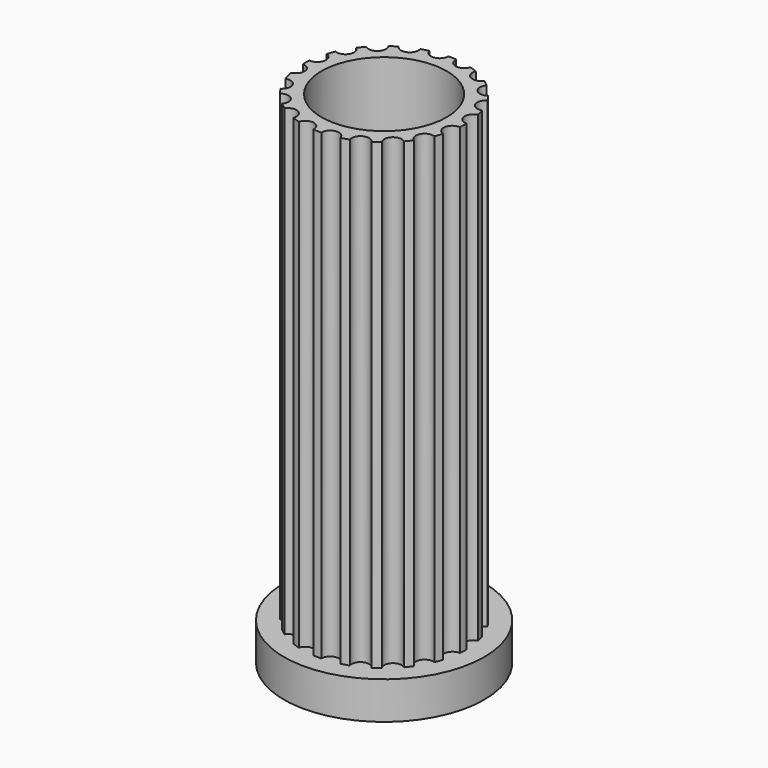
from build123d import *

# Parameters (mm, degrees)
F0_R     = 5
F1_DEPTH = 40
F0_R_2   = 8
F2_DEPTH = 3


with BuildPart() as f1:
    # F0 (on Top) → F1 (new body)
    with BuildSketch(Plane.XY):
        with BuildLine():
            ThreePointArc((-3.849529, 5.237473), (-3.941693, 4.313368), (-4.870341, 4.304623))
            ThreePointArc((-4.870341, 4.304623), (-5.077719, 4.057927), (-5.272613, 3.801256))
            ThreePointArc((-5.272613, 3.801256), (-5.076369, 2.893538), (-5.957405, 2.599871))
            ThreePointArc((-5.957405, 2.599871), (-6.078948, 2.301389), (-6.185547, 1.99725))
            ThreePointArc((-6.185547, 1.99725), (-5.719883, 1.193744), (-6.468061, 0.643569))
            ThreePointArc((-6.468061, 0.643569), (-6.49201, 0.32218), (-6.5, 0))
            ThreePointArc((-6.5, 0), (-5.809971, -0.62155), (-6.352903, -1.375002))
            ThreePointArc((-6.352903, -1.375002), (-6.244867, -1.803229), (-6.108002, -2.223131))
            ThreePointArc((-6.108002, -2.223131), (-5.247004, -2.571193), (-5.499497, -3.464899))
            ThreePointArc((-5.499497, -3.464899), (-5.320996, -3.73323), (-5.129413, -3.992383))
            ThreePointArc((-5.129413, -3.992383), (-4.203119, -4.059048), (-4.168789, -4.987103))
            ThreePointArc((-4.168789, -4.987103), (-3.916473, -5.187604), (-3.65453, -5.375352))
            ThreePointArc((-3.65453, -5.375352), (-2.752563, -5.154171), (-2.434731, -6.026781))
            ThreePointArc((-2.434731, -6.026781), (-2.133014, -6.140053), (-1.826053, -6.238231))
            ThreePointArc((-1.826053, -6.238231), (-1.035683, -5.750604), (-0.465101, -6.483339))
            ThreePointArc((-0.465101, -6.483339), (-0.143175, -6.498423), (0.179103, -6.497532))
            ThreePointArc((0.179103, -6.497532), (0.781404, -5.790638), (1.549529, -6.312603))
            ThreePointArc((1.549529, -6.312603), (1.860517, -6.22804), (2.16693, -6.128166))
            ThreePointArc((2.16693, -6.128166), (2.522886, -5.270401), (3.414236, -5.531093))
            ThreePointArc((3.414236, -5.531093), (3.684195, -5.355064), (3.945096, -5.16587))
            ThreePointArc((3.945096, -5.16587), (4.020268, -4.240228), (4.948599, -4.214424))
            ThreePointArc((4.948599, -4.214424), (5.151409, -3.963961), (5.341556, -3.703752))
            ThreePointArc((5.341556, -3.703752), (5.128669, -2.799792), (6.004161, -2.489989))
            ThreePointArc((6.004161, -2.489989), (6.120201, -2.189325), (6.221194, -1.883279))
            ThreePointArc((6.221194, -1.883279), (5.740847, -1.088464), (6.478793, -0.524636))
            ThreePointArc((6.478793, -0.524636), (6.496834, -0.202862), (6.498903, 0.119411))
            ThreePointArc((6.498903, 0.119411), (5.797572, 0.728179), (6.32657, 1.491478))
            ThreePointArc((6.32657, 1.491478), (6.244867, 1.803229), (6.147812, 2.110547))
            ThreePointArc((6.147812, 2.110547), (5.293354, 2.474367), (5.562223, 3.363284))
            ThreePointArc((5.562223, 3.363284), (5.38868, 3.634849), (5.201891, 3.897477))
            ThreePointArc((5.201891, 3.897477), (4.276978, 3.981148), (4.259703, 4.909677))
            ThreePointArc((4.259703, 4.909677), (4.011113, 5.11478), (3.752663, 5.307308))
            ThreePointArc((3.752663, 5.307308), (2.846785, 5.102734), (2.545037, 5.981035))
            ThreePointArc((2.545037, 5.981035), (2.245452, 6.099832), (1.940346, 6.203633))
            ThreePointArc((1.940346, 6.203633), (1.141152, 5.730607), (0.584127, 6.4737))
            ThreePointArc((0.584127, 6.4737), (0.262532, 6.494696), (-0.059708, 6.499726))
            ThreePointArc((-0.059708, 6.499726), (-0.674893, 5.804016), (-1.4333, 6.340004))
            ThreePointArc((-1.4333, 6.340004), (-1.745788, 6.261168), (-2.053985, 6.16694))
            ThreePointArc((-2.053985, 6.16694), (-2.425639, 5.315859), (-3.312049, 5.592882))
            ThreePointArc((-3.312049, 5.592882), (-3.585196, 5.421842), (-3.849529, 5.237473))
        make_face()
        Circle(F0_R, mode=Mode.SUBTRACT)
    extrude(amount=F1_DEPTH)

    # F0 (on Top) → F2 (join)
    with BuildSketch(Plane.XY):
        Circle(F0_R_2)
        with BuildLine():
            ThreePointArc((-5.272613, 3.801256), (-5.077719, 4.057927), (-4.870341, 4.304623))
            ThreePointArc((-4.870341, 4.304623), (-3.941693, 4.313368), (-3.849529, 5.237473))
            ThreePointArc((-3.849529, 5.237473), (-3.585196, 5.421842), (-3.312049, 5.592882))
            ThreePointArc((-3.312049, 5.592882), (-2.425639, 5.315859), (-2.053985, 6.16694))
            ThreePointArc((-2.053985, 6.16694), (-1.745788, 6.261168), (-1.4333, 6.340004))
            ThreePointArc((-1.4333, 6.340004), (-0.674893, 5.804016), (-0.059708, 6.499726))
            ThreePointArc((-0.059708, 6.499726), (0.262532, 6.494696), (0.584127, 6.4737))
            ThreePointArc((0.584127, 6.4737), (1.141152, 5.730607), (1.940346, 6.203633))
            ThreePointArc((1.940346, 6.203633), (2.245452, 6.099832), (2.545037, 5.981035))
            ThreePointArc((2.545037, 5.981035), (2.846785, 5.102734), (3.752663, 5.307308))
            ThreePointArc((3.752663, 5.307308), (4.011113, 5.11478), (4.259703, 4.909677))
            ThreePointArc((4.259703, 4.909677), (4.276978, 3.981148), (5.201891, 3.897477))
            ThreePointArc((5.201891, 3.897477), (5.38868, 3.634849), (5.562223, 3.363284))
            ThreePointArc((5.562223, 3.363284), (5.293354, 2.474367), (6.147812, 2.110547))
            ThreePointArc((6.147812, 2.110547), (6.244867, 1.803229), (6.32657, 1.491478))
            ThreePointArc((6.32657, 1.491478), (5.797572, 0.728179), (6.498903, 0.119411))
            ThreePointArc((6.498903, 0.119411), (6.496834, -0.202862), (6.478793, -0.524636))
            ThreePointArc((6.478793, -0.524636), (5.740847, -1.088464), (6.221194, -1.883279))
            ThreePointArc((6.221194, -1.883279), (6.120201, -2.189325), (6.004161, -2.489989))
            ThreePointArc((6.004161, -2.489989), (5.128669, -2.799792), (5.341556, -3.703752))
            ThreePointArc((5.341556, -3.703752), (5.151409, -3.963961), (4.948599, -4.214424))
            ThreePointArc((4.948599, -4.214424), (4.020268, -4.240228), (3.945096, -5.16587))
            ThreePointArc((3.945096, -5.16587), (3.684195, -5.355064), (3.414236, -5.531093))
            ThreePointArc((3.414236, -5.531093), (2.522886, -5.270401), (2.16693, -6.128166))
            ThreePointArc((2.16693, -6.128166), (1.860517, -6.22804), (1.549529, -6.312603))
            ThreePointArc((1.549529, -6.312603), (0.781404, -5.790638), (0.179103, -6.497532))
            ThreePointArc((0.179103, -6.497532), (-0.143175, -6.498423), (-0.465101, -6.483339))
            ThreePointArc((-0.465101, -6.483339), (-1.035683, -5.750604), (-1.826053, -6.238231))
            ThreePointArc((-1.826053, -6.238231), (-2.133014, -6.140053), (-2.434731, -6.026781))
            ThreePointArc((-2.434731, -6.026781), (-2.752563, -5.154171), (-3.65453, -5.375352))
            ThreePointArc((-3.65453, -5.375352), (-3.916473, -5.187604), (-4.168789, -4.987103))
            ThreePointArc((-4.168789, -4.987103), (-4.203119, -4.059048), (-5.129413, -3.992383))
            ThreePointArc((-5.129413, -3.992383), (-5.320996, -3.73323), (-5.499497, -3.464899))
            ThreePointArc((-5.499497, -3.464899), (-5.247004, -2.571193), (-6.108002, -2.223131))
            ThreePointArc((-6.108002, -2.223131), (-6.244867, -1.803229), (-6.352903, -1.375002))
            ThreePointArc((-6.352903, -1.375002), (-5.809971, -0.62155), (-6.5, 0))
            ThreePointArc((-6.5, 0), (-6.49201, 0.32218), (-6.468061, 0.643569))
            ThreePointArc((-6.468061, 0.643569), (-5.719883, 1.193744), (-6.185547, 1.99725))
            ThreePointArc((-6.185547, 1.99725), (-6.078948, 2.301389), (-5.957405, 2.599871))
            ThreePointArc((-5.957405, 2.599871), (-5.076369, 2.893538), (-5.272613, 3.801256))
        make_face(mode=Mode.SUBTRACT)
    extrude(amount=F2_DEPTH)


solid = f1.part
